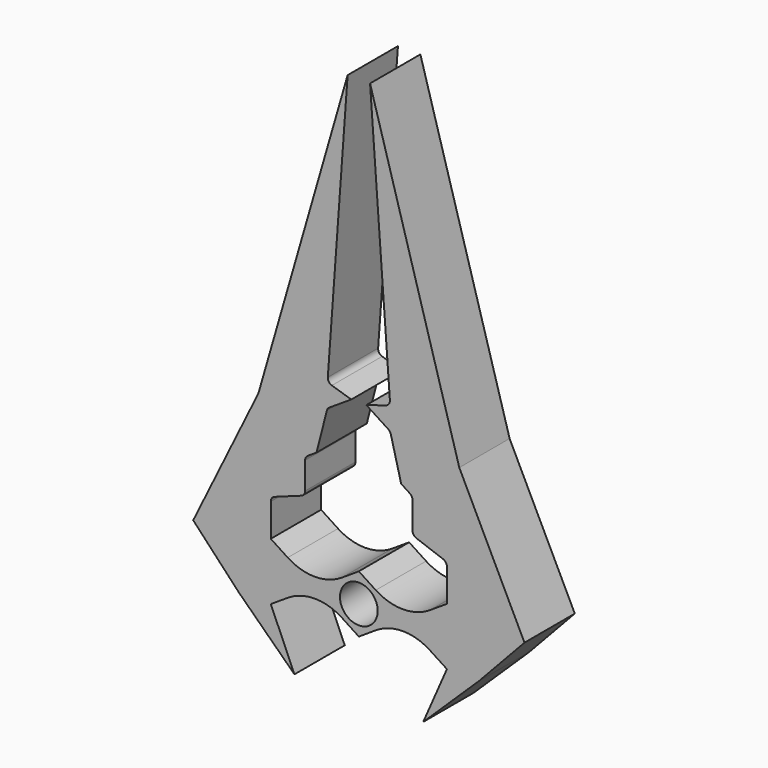
from build123d import *

# Parameters (mm, degrees)
F1_DEPTH = 6.35
F2_R     = 1.905
F3_DEPTH = 25


with BuildPart() as f1:
    # F0 (on Front) → F1 (new body)
    with BuildSketch(Plane.XZ):
        with BuildLine():
            Line((-6.499975, -30.868517), (-8.89, -25.4))
            Line((-8.89, -25.4), (-8.89, -22.498352))
            Line((-8.89, -22.498352), (-8.89, -19.596705))
            Line((-8.89, -19.596705), (-8.89, -16.289068))
            ThreePointArc((-8.89, -16.289068), (-8.784808, -15.955818), (-8.507357, -15.743351))
            Line((-8.507357, -15.743351), (-5.804938, -14.763721))
            ThreePointArc((-5.804938, -14.763721), (-5.527487, -14.551255), (-5.422295, -14.218004))
            Line((-5.422295, -14.218004), (-5.422295, -11.492081))
            ThreePointArc((-5.422295, -11.492081), (-5.351628, -11.214509), (-5.156832, -11.004521))
            Line((-5.156832, -11.004521), (-4.275105, -10.434854))
            Line((-4.275105, -10.434854), (-3.22328, -6.348127))
            ThreePointArc((-3.22328, -6.348127), (-3.132026, -6.153394), (-2.976137, -6.00525))
            Line((-2.976137, -6.00525), (-0.759106, -4.572867))
            Line((-0.759106, -4.572867), (-2.725778, -3.964739))
            ThreePointArc((-2.725778, -3.964739), (-3.033659, -3.737525), (-3.133235, -3.368063))
            Line((-3.133235, -3.368063), (-1.132485, 24.133962))
            Line((-1.132485, 24.133962), (-10.141328, -7.082726))
            Line((-10.141328, -7.082726), (-16.721947, -20.498401))
            Line((-16.721947, -20.498401), (-12.129466, -25.4))
            Line((-12.129466, -25.4), (-6.499975, -30.868517))
        make_face()
        with BuildLine():
            Line((8.89, -22.498352), (8.89, -25.4))
            Line((8.89, -25.4), (6.499975, -30.868517))
            Line((6.499975, -30.868517), (12.129466, -25.4))
            Line((12.129466, -25.4), (16.721947, -20.498401))
            Line((16.721947, -20.498401), (10.141328, -7.082726))
            Line((10.141328, -7.082726), (1.132485, 24.133962))
            Line((1.132485, 24.133962), (3.133235, -3.368063))
            ThreePointArc((3.133235, -3.368063), (3.033659, -3.737525), (2.725778, -3.964739))
            Line((2.725778, -3.964739), (0.759106, -4.572867))
            Line((0.759106, -4.572867), (2.976137, -6.00525))
            ThreePointArc((2.976137, -6.00525), (3.132026, -6.153394), (3.22328, -6.348127))
            Line((3.22328, -6.348127), (4.275105, -10.434854))
            Line((4.275105, -10.434854), (5.156832, -11.004521))
            ThreePointArc((5.156832, -11.004521), (5.351628, -11.214509), (5.422295, -11.492081))
            Line((5.422295, -11.492081), (5.422295, -14.218004))
            ThreePointArc((5.422295, -14.218004), (5.527487, -14.551255), (5.804938, -14.763721))
            Line((5.804938, -14.763721), (8.507357, -15.743351))
            ThreePointArc((8.507357, -15.743351), (8.784808, -15.955818), (8.89, -16.289068))
            Line((8.89, -16.289068), (8.89, -19.596705))
            Line((8.89, -19.596705), (8.89, -22.498352))
        make_face()
        with BuildLine():
            Line((-1.711854, -24.28252), (0, -25.4))
            Line((0, -25.4), (1.711854, -24.28252))
            ThreePointArc((1.711854, -24.28252), (4.445, -23.469394), (7.178146, -24.28252))
            Line((7.178146, -24.28252), (8.89, -25.4))
            Line((8.89, -25.4), (8.89, -22.498352))
            Line((8.89, -22.498352), (8.89, -19.596705))
            Line((8.89, -19.596705), (7.178146, -20.714185))
            ThreePointArc((7.178146, -20.714185), (4.445, -21.527311), (1.711854, -20.714185))
            Line((1.711854, -20.714185), (0, -19.596705))
            Line((0, -19.596705), (-1.711854, -20.714185))
            ThreePointArc((-1.711854, -20.714185), (-4.445, -21.527311), (-7.178146, -20.714185))
            Line((-7.178146, -20.714185), (-8.89, -19.596705))
            Line((-8.89, -19.596705), (-8.89, -22.498352))
            Line((-8.89, -22.498352), (-8.89, -25.4))
            Line((-8.89, -25.4), (-7.178146, -24.28252))
            ThreePointArc((-7.178146, -24.28252), (-4.445, -23.469394), (-1.711854, -24.28252))
        make_face()
    extrude(amount=F1_DEPTH)

    # F2 (on face) → F3 (cut)
    with BuildSketch(Plane.XZ.offset(6.35)):
        with Locations((0, -22.498352)):
            Circle(F2_R)
    extrude(amount=-F3_DEPTH, mode=Mode.SUBTRACT)


solid = f1.part
